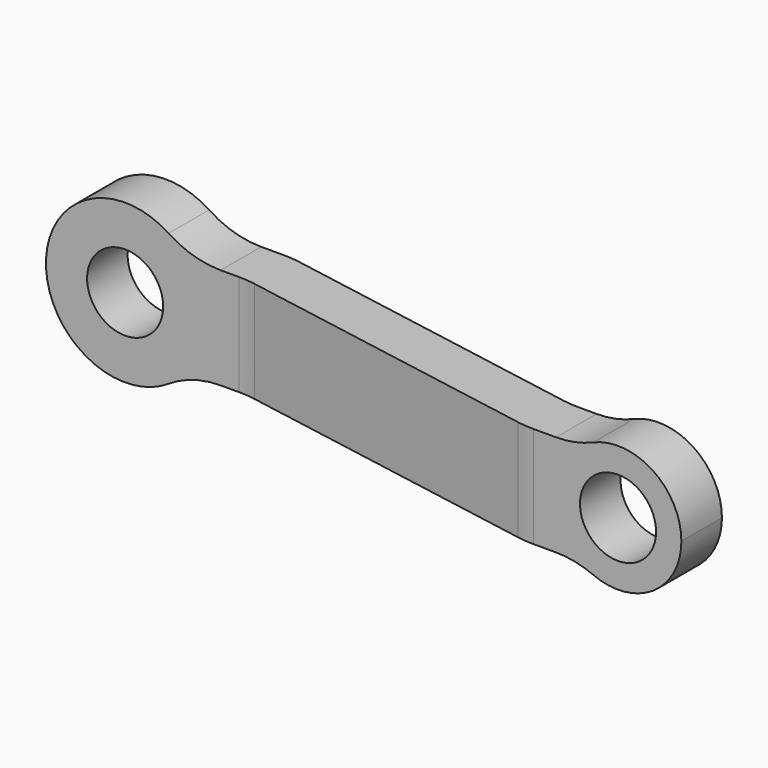
from build123d import *

# Parameters (mm, degrees)
F0_R     = 6
F1_DEPTH = 25
F3_DEPTH = 12.5
F4_R     = 15


with BuildPart() as f1:
    # F0 (on Front) → F1 (new body)
    with BuildSketch(Plane.XZ):
        with BuildLine():
            ThreePointArc((9.604686, -8), (11.753905, -4.253905), (12.5, 0))
            ThreePointArc((12.5, 0), (11.753905, 4.253905), (9.604686, 8))
            ThreePointArc((9.604686, 8), (-12.5, 0), (9.604686, -8))
        make_face()
        Circle(F0_R, mode=Mode.SUBTRACT)
        with BuildLine():
            ThreePointArc((9.604686, 8), (11.753905, 4.253905), (12.5, 0))
            ThreePointArc((12.5, 0), (11.753905, -4.253905), (9.604686, -8))
            Line((9.604686, -8), (79, -8))
            ThreePointArc((79, -8), (75, 0), (79, 8))
            Line((79, 8), (9.604686, 8))
        make_face()
        with BuildLine():
            ThreePointArc((95, 0), (89.472136, 8.944272), (79, 8))
            ThreePointArc((79, 8), (75, 0), (79, -8))
            ThreePointArc((79, -8), (89.472136, -8.944272), (95, 0))
        make_face()
        with Locations((85, 0)):
            Circle(F0_R, mode=Mode.SUBTRACT)
    extrude(amount=F1_DEPTH)

    # F2 (on Top) → F3 (intersect, symmetric)
    with BuildSketch(Plane.XY):
        Polygon((20, 0), (-12.5, 0), (-12.5, -8), (19.300091, -8), (70.341622, -16.999999), (95, -16.999999), (95, -8.999999), (71.041532, -8.999999), align=None)
    extrude(amount=F3_DEPTH, both=True, mode=Mode.INTERSECT)

    # F4
    f4_edges = [f1.edges().sort_by_distance(p)[0] for p in [
        (20, 0, 0),
        (19.300091, -8, 0),
        (70.341622, -16.999999, 0),
        (71.041532, -8.999999, 0),
        (79, -12.999999, -8),
        (9.604686, -4, -8),
        (9.604686, -4, 8),
        (79, -12.999999, 8),
    ]]
    fillet(f4_edges, radius=F4_R)


solid = f1.part
